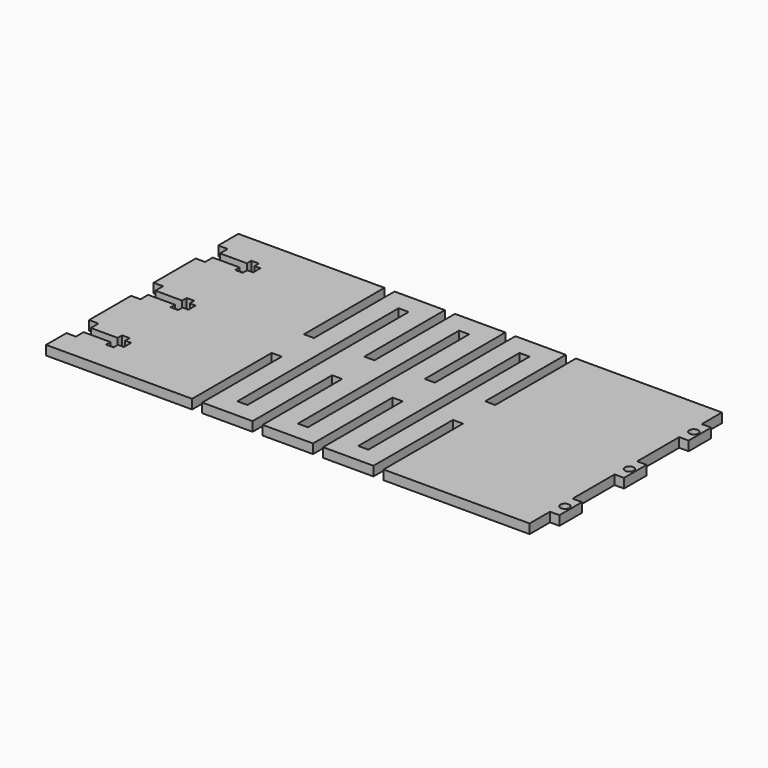
from build123d import *

# Parameters (mm, degrees)
F0_W     = 3.175
F0_H     = 63.5
F0_R     = 1.4224
F1_DEPTH = 2.9718


with BuildPart() as f1:
    # F0 (on Top) → F1 (new body)
    with BuildSketch(Plane.XY):
        Polygon((0, 8.035559), (0, 0), (46.0375, 0), (46.0375, 31.32091), (49.2125, 31.32091), (49.2125, 0), (65.0875, 0), (65.0875, 31.32091), (68.2625, 31.32091), (68.2625, 0), (84.1375, 0), (84.1375, 31.32091), (87.3125, 31.32091), (87.3125, 0), (103.1875, 0), (103.1875, 31.32091), (106.3625, 31.32091), (106.3625, 0), (152.4, 0), (152.4, 8.035554), (155.3718, 8.035554), (155.3718, 11.058159), (155.3718, 13.902959), (155.3718, 16.925564), (152.4, 16.925564), (152.4, 33.489475), (155.3718, 33.489475), (155.3718, 36.51208), (155.3718, 39.35688), (155.3718, 42.379485), (152.4, 42.379485), (152.4, 58.943395), (155.3718, 58.943395), (155.3718, 61.966), (155.3718, 64.8108), (155.3718, 67.833405), (152.4, 67.833405), (152.4, 75.77091), (106.3625, 75.77091), (106.3625, 44.02091), (103.1875, 44.02091), (103.1875, 75.77091), (87.3125, 75.77091), (87.3125, 44.02091), (84.1375, 44.02091), (84.1375, 75.77091), (68.2625, 75.77091), (68.2625, 44.02091), (65.0875, 44.02091), (65.0875, 75.77091), (49.2125, 75.77091), (49.2125, 44.02091), (46.0375, 44.02091), (46.0375, 75.77091), (0, 75.77091), (0, 67.83341), (2.9718, 67.83341), (2.9718, 64.810805), (11.43, 64.810805), (11.43, 66.563405), (13.81125, 66.563405), (13.81125, 64.810805), (15.6718, 64.810805), (15.6718, 61.966005), (13.81125, 61.966005), (13.81125, 60.213405), (11.43, 60.213405), (11.43, 61.966005), (2.9718, 61.966005), (2.9718, 58.9434), (0, 58.9434), (0, 42.37949), (2.9718, 42.37949), (2.9718, 39.356885), (11.43, 39.356885), (11.43, 41.109485), (13.81125, 41.109485), (13.81125, 39.356885), (15.6718, 39.356885), (15.6718, 36.512085), (13.81125, 36.512085), (13.81125, 34.759485), (11.43, 34.759485), (11.43, 36.512085), (2.9718, 36.512085), (2.9718, 33.48948), (0, 33.48948), (0, 16.925569), (2.9718, 16.925569), (2.9718, 13.902964), (11.43, 13.902964), (11.43, 15.655564), (13.81125, 15.655564), (13.81125, 13.902964), (15.6718, 13.902964), (15.6718, 11.058164), (13.81125, 11.058164), (13.81125, 9.305564), (11.43, 9.305564), (11.43, 11.058164), (2.9718, 11.058164), (2.9718, 8.035559), align=None)
        with Locations((57.15, 37.67091)):
            Rectangle(F0_W, F0_H, mode=Mode.SUBTRACT)
        with Locations((76.2, 37.67091)):
            Rectangle(F0_W, F0_H, mode=Mode.SUBTRACT)
        with Locations((153.4668, 12.588405)):
            Circle(F0_R, mode=Mode.SUBTRACT)
        with Locations((95.25, 37.67091)):
            Rectangle(F0_W, F0_H, mode=Mode.SUBTRACT)
        with Locations((153.4668, 37.988405)):
            Circle(F0_R, mode=Mode.SUBTRACT)
        with Locations((153.4668, 63.388405)):
            Circle(F0_R, mode=Mode.SUBTRACT)
        Polygon((0, 8.035559), (0, 0), (46.0375, 0), (46.0375, 31.32091), (49.2125, 31.32091), (49.2125, 0), (65.0875, 0), (65.0875, 31.32091), (68.2625, 31.32091), (68.2625, 0), (84.1375, 0), (84.1375, 31.32091), (87.3125, 31.32091), (87.3125, 0), (103.1875, 0), (103.1875, 31.32091), (106.3625, 31.32091), (106.3625, 0), (152.4, 0), (152.4, 8.035554), (155.3718, 8.035554), (155.3718, 11.058159), (155.3718, 13.902959), (155.3718, 16.925564), (152.4, 16.925564), (152.4, 33.489475), (155.3718, 33.489475), (155.3718, 36.51208), (155.3718, 39.35688), (155.3718, 42.379485), (152.4, 42.379485), (152.4, 58.943395), (155.3718, 58.943395), (155.3718, 61.966), (155.3718, 64.8108), (155.3718, 67.833405), (152.4, 67.833405), (152.4, 75.77091), (106.3625, 75.77091), (106.3625, 44.02091), (103.1875, 44.02091), (103.1875, 75.77091), (87.3125, 75.77091), (87.3125, 44.02091), (84.1375, 44.02091), (84.1375, 75.77091), (68.2625, 75.77091), (68.2625, 44.02091), (65.0875, 44.02091), (65.0875, 75.77091), (49.2125, 75.77091), (49.2125, 44.02091), (46.0375, 44.02091), (46.0375, 75.77091), (0, 75.77091), (0, 67.83341), (2.9718, 67.83341), (2.9718, 64.810805), (11.43, 64.810805), (11.43, 66.563405), (13.81125, 66.563405), (13.81125, 64.810805), (15.6718, 64.810805), (15.6718, 61.966005), (13.81125, 61.966005), (13.81125, 60.213405), (11.43, 60.213405), (11.43, 61.966005), (2.9718, 61.966005), (2.9718, 58.9434), (0, 58.9434), (0, 42.37949), (2.9718, 42.37949), (2.9718, 39.356885), (11.43, 39.356885), (11.43, 41.109485), (13.81125, 41.109485), (13.81125, 39.356885), (15.6718, 39.356885), (15.6718, 36.512085), (13.81125, 36.512085), (13.81125, 34.759485), (11.43, 34.759485), (11.43, 36.512085), (2.9718, 36.512085), (2.9718, 33.48948), (0, 33.48948), (0, 16.925569), (2.9718, 16.925569), (2.9718, 13.902964), (11.43, 13.902964), (11.43, 15.655564), (13.81125, 15.655564), (13.81125, 13.902964), (15.6718, 13.902964), (15.6718, 11.058164), (13.81125, 11.058164), (13.81125, 9.305564), (11.43, 9.305564), (11.43, 11.058164), (2.9718, 11.058164), (2.9718, 8.035559), align=None)
        with Locations((57.15, 37.67091)):
            Rectangle(F0_W, F0_H, mode=Mode.SUBTRACT)
        with Locations((76.2, 37.67091)):
            Rectangle(F0_W, F0_H, mode=Mode.SUBTRACT)
        with Locations((153.4668, 12.588405)):
            Circle(F0_R, mode=Mode.SUBTRACT)
        with Locations((95.25, 37.67091)):
            Rectangle(F0_W, F0_H, mode=Mode.SUBTRACT)
        with Locations((153.4668, 37.988405)):
            Circle(F0_R, mode=Mode.SUBTRACT)
        with Locations((153.4668, 63.388405)):
            Circle(F0_R, mode=Mode.SUBTRACT)
        Polygon((0, 8.035559), (0, 0), (46.0375, 0), (46.0375, 31.32091), (49.2125, 31.32091), (49.2125, 0), (65.0875, 0), (65.0875, 31.32091), (68.2625, 31.32091), (68.2625, 0), (84.1375, 0), (84.1375, 31.32091), (87.3125, 31.32091), (87.3125, 0), (103.1875, 0), (103.1875, 31.32091), (106.3625, 31.32091), (106.3625, 0), (152.4, 0), (152.4, 8.035554), (155.3718, 8.035554), (155.3718, 11.058159), (155.3718, 13.902959), (155.3718, 16.925564), (152.4, 16.925564), (152.4, 33.489475), (155.3718, 33.489475), (155.3718, 36.51208), (155.3718, 39.35688), (155.3718, 42.379485), (152.4, 42.379485), (152.4, 58.943395), (155.3718, 58.943395), (155.3718, 61.966), (155.3718, 64.8108), (155.3718, 67.833405), (152.4, 67.833405), (152.4, 75.77091), (106.3625, 75.77091), (106.3625, 44.02091), (103.1875, 44.02091), (103.1875, 75.77091), (87.3125, 75.77091), (87.3125, 44.02091), (84.1375, 44.02091), (84.1375, 75.77091), (68.2625, 75.77091), (68.2625, 44.02091), (65.0875, 44.02091), (65.0875, 75.77091), (49.2125, 75.77091), (49.2125, 44.02091), (46.0375, 44.02091), (46.0375, 75.77091), (0, 75.77091), (0, 67.83341), (2.9718, 67.83341), (2.9718, 64.810805), (11.43, 64.810805), (11.43, 66.563405), (13.81125, 66.563405), (13.81125, 64.810805), (15.6718, 64.810805), (15.6718, 61.966005), (13.81125, 61.966005), (13.81125, 60.213405), (11.43, 60.213405), (11.43, 61.966005), (2.9718, 61.966005), (2.9718, 58.9434), (0, 58.9434), (0, 42.37949), (2.9718, 42.37949), (2.9718, 39.356885), (11.43, 39.356885), (11.43, 41.109485), (13.81125, 41.109485), (13.81125, 39.356885), (15.6718, 39.356885), (15.6718, 36.512085), (13.81125, 36.512085), (13.81125, 34.759485), (11.43, 34.759485), (11.43, 36.512085), (2.9718, 36.512085), (2.9718, 33.48948), (0, 33.48948), (0, 16.925569), (2.9718, 16.925569), (2.9718, 13.902964), (11.43, 13.902964), (11.43, 15.655564), (13.81125, 15.655564), (13.81125, 13.902964), (15.6718, 13.902964), (15.6718, 11.058164), (13.81125, 11.058164), (13.81125, 9.305564), (11.43, 9.305564), (11.43, 11.058164), (2.9718, 11.058164), (2.9718, 8.035559), align=None)
        with Locations((57.15, 37.67091)):
            Rectangle(F0_W, F0_H, mode=Mode.SUBTRACT)
        with Locations((76.2, 37.67091)):
            Rectangle(F0_W, F0_H, mode=Mode.SUBTRACT)
        with Locations((153.4668, 12.588405)):
            Circle(F0_R, mode=Mode.SUBTRACT)
        with Locations((95.25, 37.67091)):
            Rectangle(F0_W, F0_H, mode=Mode.SUBTRACT)
        with Locations((153.4668, 37.988405)):
            Circle(F0_R, mode=Mode.SUBTRACT)
        with Locations((153.4668, 63.388405)):
            Circle(F0_R, mode=Mode.SUBTRACT)
        Polygon((0, 8.035559), (0, 0), (46.0375, 0), (46.0375, 31.32091), (49.2125, 31.32091), (49.2125, 0), (65.0875, 0), (65.0875, 31.32091), (68.2625, 31.32091), (68.2625, 0), (84.1375, 0), (84.1375, 31.32091), (87.3125, 31.32091), (87.3125, 0), (103.1875, 0), (103.1875, 31.32091), (106.3625, 31.32091), (106.3625, 0), (152.4, 0), (152.4, 8.035554), (155.3718, 8.035554), (155.3718, 11.058159), (155.3718, 13.902959), (155.3718, 16.925564), (152.4, 16.925564), (152.4, 33.489475), (155.3718, 33.489475), (155.3718, 36.51208), (155.3718, 39.35688), (155.3718, 42.379485), (152.4, 42.379485), (152.4, 58.943395), (155.3718, 58.943395), (155.3718, 61.966), (155.3718, 64.8108), (155.3718, 67.833405), (152.4, 67.833405), (152.4, 75.77091), (106.3625, 75.77091), (106.3625, 44.02091), (103.1875, 44.02091), (103.1875, 75.77091), (87.3125, 75.77091), (87.3125, 44.02091), (84.1375, 44.02091), (84.1375, 75.77091), (68.2625, 75.77091), (68.2625, 44.02091), (65.0875, 44.02091), (65.0875, 75.77091), (49.2125, 75.77091), (49.2125, 44.02091), (46.0375, 44.02091), (46.0375, 75.77091), (0, 75.77091), (0, 67.83341), (2.9718, 67.83341), (2.9718, 64.810805), (11.43, 64.810805), (11.43, 66.563405), (13.81125, 66.563405), (13.81125, 64.810805), (15.6718, 64.810805), (15.6718, 61.966005), (13.81125, 61.966005), (13.81125, 60.213405), (11.43, 60.213405), (11.43, 61.966005), (2.9718, 61.966005), (2.9718, 58.9434), (0, 58.9434), (0, 42.37949), (2.9718, 42.37949), (2.9718, 39.356885), (11.43, 39.356885), (11.43, 41.109485), (13.81125, 41.109485), (13.81125, 39.356885), (15.6718, 39.356885), (15.6718, 36.512085), (13.81125, 36.512085), (13.81125, 34.759485), (11.43, 34.759485), (11.43, 36.512085), (2.9718, 36.512085), (2.9718, 33.48948), (0, 33.48948), (0, 16.925569), (2.9718, 16.925569), (2.9718, 13.902964), (11.43, 13.902964), (11.43, 15.655564), (13.81125, 15.655564), (13.81125, 13.902964), (15.6718, 13.902964), (15.6718, 11.058164), (13.81125, 11.058164), (13.81125, 9.305564), (11.43, 9.305564), (11.43, 11.058164), (2.9718, 11.058164), (2.9718, 8.035559), align=None)
        with Locations((57.15, 37.67091)):
            Rectangle(F0_W, F0_H, mode=Mode.SUBTRACT)
        with Locations((76.2, 37.67091)):
            Rectangle(F0_W, F0_H, mode=Mode.SUBTRACT)
        with Locations((153.4668, 12.588405)):
            Circle(F0_R, mode=Mode.SUBTRACT)
        with Locations((95.25, 37.67091)):
            Rectangle(F0_W, F0_H, mode=Mode.SUBTRACT)
        with Locations((153.4668, 37.988405)):
            Circle(F0_R, mode=Mode.SUBTRACT)
        with Locations((153.4668, 63.388405)):
            Circle(F0_R, mode=Mode.SUBTRACT)
    extrude(amount=F1_DEPTH)


solid = f1.part
